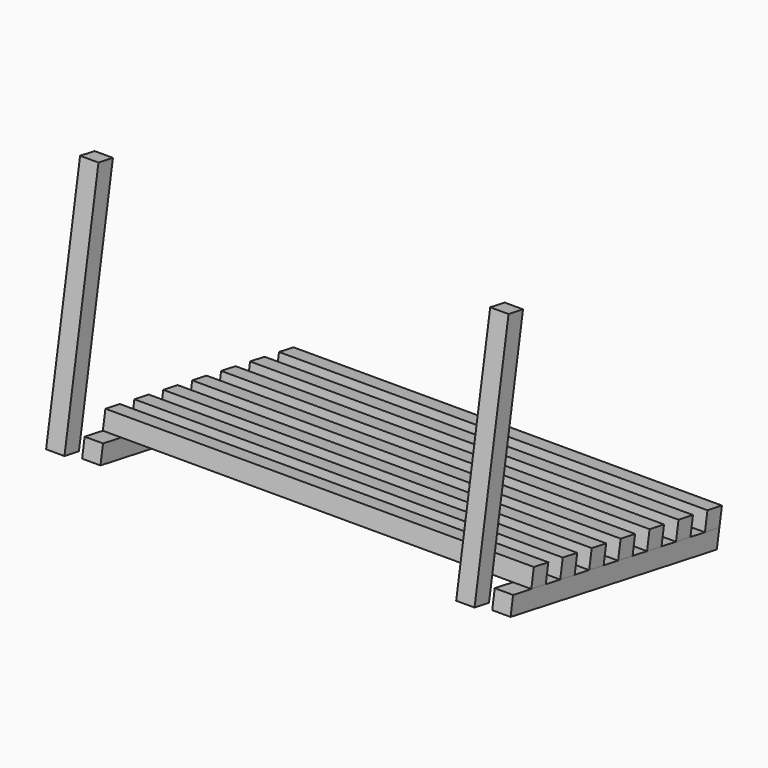
from build123d import *

# Parameters (mm, degrees)
F5_DEPTH      = 30
F6_DEPTH      = 30
F8_DEPTH      = 350
F8_DEPTH_BACK = 350


with BuildPart() as f5:
    # F4 (on offset) → F5 (new body)
    with BuildSketch(Plane.YZ.offset(-350)):
        Polygon((500, -88.16349), (78.78462, -13.891854), (73.575175, -43.436087), (494.790555, -117.707723), align=None)
        Polygon((69.459271, 393.923101), (0, 0), (29.544233, -5.209445), (99.003504, 388.713656), align=None)
    extrude(amount=F5_DEPTH)


with BuildPart() as f6:
    # F3 (on offset) → F6 (new body)
    with BuildSketch(Plane.YZ.offset(350)):
        Polygon((69.459271, 393.923101), (0, 0), (29.544233, -5.209445), (99.003504, 388.713656), align=None)
        Polygon((500, -88.16349), (78.78462, -13.891854), (73.575175, -43.436087), (494.790555, -117.707723), align=None)
    extrude(amount=-F6_DEPTH)


with BuildPart() as f8:
    # F7 (on Right) → F8 (new body, two sides)
    with BuildSketch(Plane.YZ) as f8_sk:
        Polygon((475.665213, -53.409812), (470.455767, -82.954045), (500, -88.16349), (505.209445, -58.619258), align=None)
        Polygon((416.576748, -42.990922), (411.367302, -72.535154), (440.911535, -77.7446), (446.12098, -48.200367), align=None)
        Polygon((357.488282, -32.572031), (352.278837, -62.116264), (381.82307, -67.325709), (387.032515, -37.781476), align=None)
        Polygon((298.399817, -22.15314), (293.190372, -51.697373), (322.734604, -56.906818), (327.94405, -27.362586), align=None)
        Polygon((239.311352, -11.73425), (234.101907, -41.278482), (263.646139, -46.487928), (268.855585, -16.943695), align=None)
        Polygon((180.222887, -1.315359), (175.013442, -30.859592), (204.557674, -36.069037), (209.767119, -6.524804), align=None)
        Polygon((121.134422, 9.103532), (115.924976, -20.440701), (145.469209, -25.650146), (150.678654, 3.894086), align=None)
    extrude(amount=F8_DEPTH)
    extrude(f8_sk.sketch, amount=-F8_DEPTH_BACK)


solid = Compound([f5.part, f6.part, f8.part])
